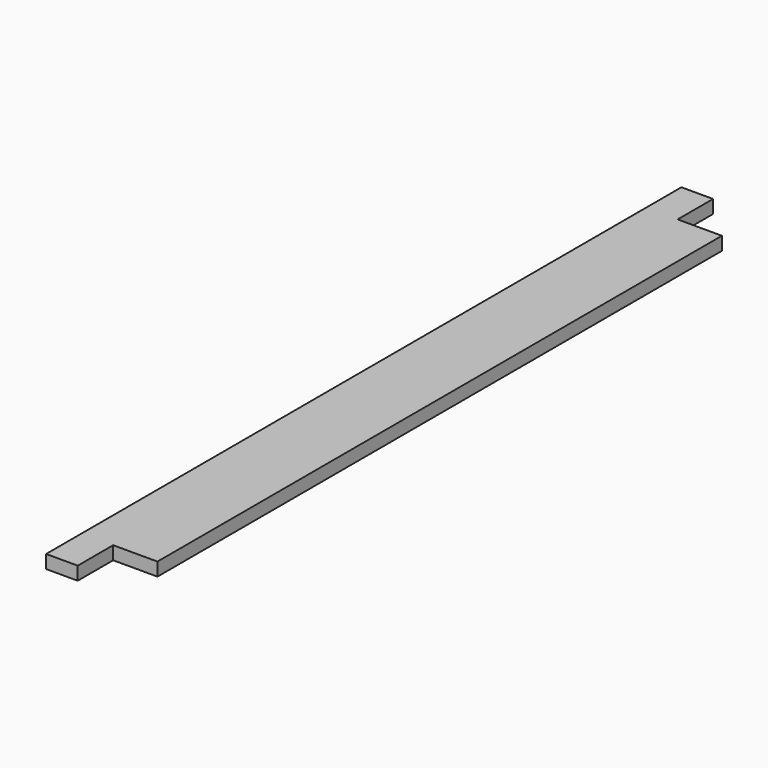
from build123d import *

# Parameters (mm, degrees)
F0_W     = 120
F0_H     = 21
F1_DEPTH = 1255
F2_W     = 70
F2_H     = 70
F3_DEPTH = 25


with BuildPart() as f1:
    # F0 (on Front) → F1 (new body)
    with BuildSketch(Plane.XZ):
        Rectangle(F0_W, F0_H)
    extrude(amount=F1_DEPTH)

    # F2 (on face) → F3 (cut)
    with BuildSketch(Plane.XY.offset(10.5)):
        with Locations((25, -1220)):
            Rectangle(F2_W, F2_H)
        with Locations((25, -35)):
            Rectangle(F2_W, F2_H)
    extrude(amount=-F3_DEPTH, mode=Mode.SUBTRACT)


with BuildPart() as f4_1:
    # F4: copy of F1
    add(f1.part)


solid = f4_1.part
